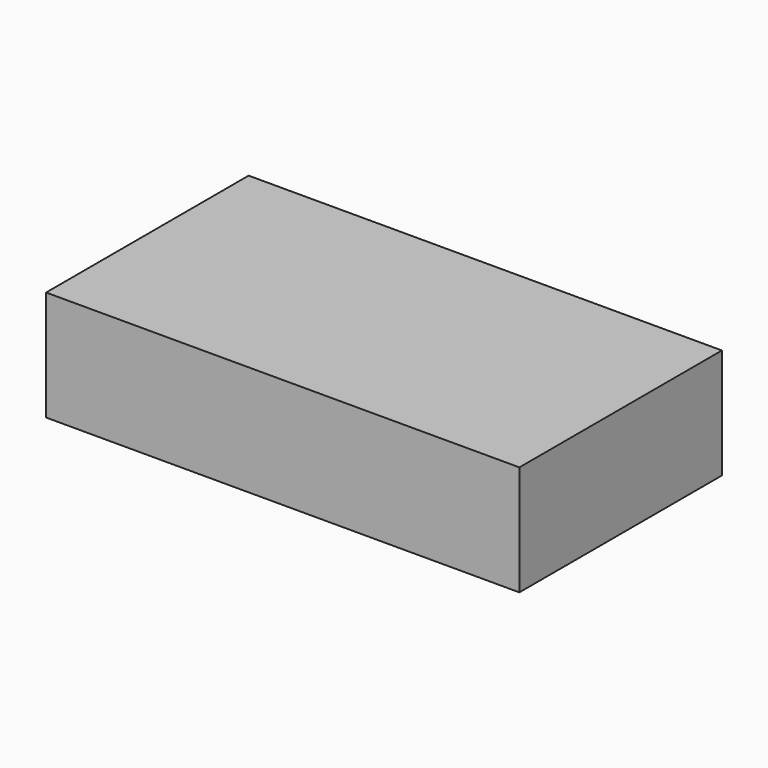
from build123d import *

# Parameters (mm, degrees)
F0_W     = 215
F0_H     = 115
F1_DEPTH = 50
F2_R     = 2
F3_DEPTH = 5


with BuildPart() as f1:
    # F0 (on Top) → F1 (new body)
    with BuildSketch(Plane.XY):
        Rectangle(F0_W, F0_H)
    extrude(amount=F1_DEPTH)

    # F2 (on face) → F3 (cut)
    with BuildSketch(Plane(origin=(0, 0, 0), x_dir=(1, 0, 0), z_dir=(0, 0, -1))):
        with Locations((-75, 25)):
            Circle(F2_R)
        with Locations((-75, -25)):
            Circle(F2_R)
        with Locations((75, 25)):
            Circle(F2_R)
        with Locations((75, -25)):
            Circle(F2_R)
    extrude(amount=-F3_DEPTH, mode=Mode.SUBTRACT)


solid = f1.part
